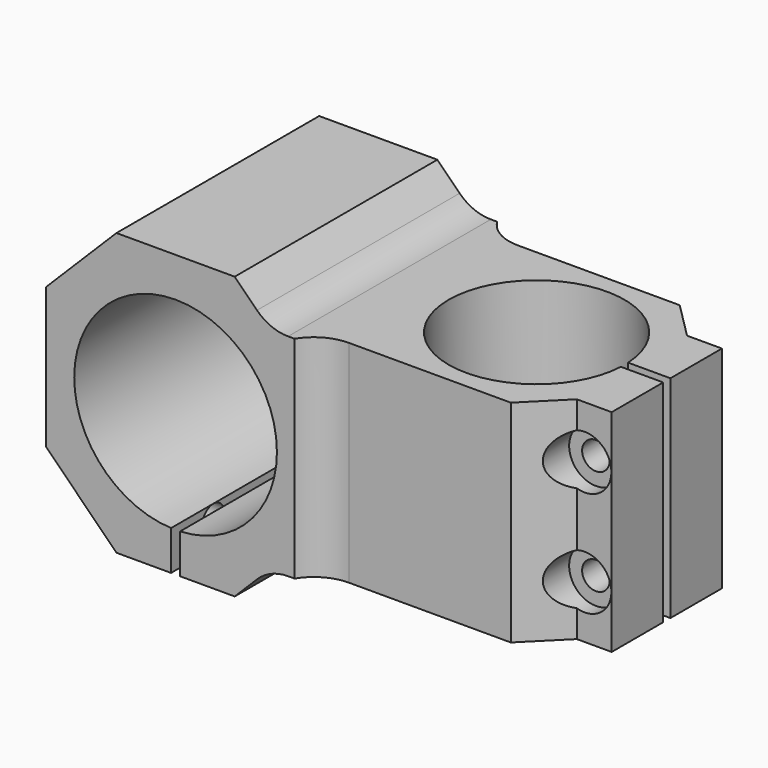
from build123d import *

# Parameters (mm, degrees)
F1_DEPTH       = 22.86
F3_DEPTH       = 23.368
F5_DEPTH       = 45.72
F7_D           = 4.9784
F7_START       = 6.6163719
F7_CBORE_D     = 9.652
F7_CBORE_DEPTH = 2.54
F9_D           = 4.9784
F9_DEPTH       = 31.75
F9_CBORE_D     = 9.652
F9_CBORE_DEPTH = 12.7
F9_TIP         = 1.4956622529


with BuildPart() as f1:
    # F0 (on Front) → F1 (new body, symmetric)
    with BuildSketch(Plane.XZ):
        with BuildLine():
            ThreePointArc((-38.7916133821, 0), (-20.5036133821, 18.288), (-2.2156133821, 0))
            Line((-2.2156133821, 0), (10.4843866179, 0))
            Line((10.4843866179, 0), (26.3593866179, 0))
            Line((26.3593866179, 0), (42.2343866179, 0))
            Line((42.2343866179, 0), (49.8543866179, 0))
            Line((49.8543866179, 0), (49.8543866179, 19.05))
            Line((49.8543866179, 19.05), (-0.1977932308, 19.05))
            ThreePointArc((-0.1977932308, 19.05), (-3.2353429752, 19.6542062107), (-5.8104533064, 21.3748399243))
            Line((-5.8104533064, 21.3748399243), (-9.8356133821, 25.4))
            Line((-9.8356133821, 25.4), (-31.1716133821, 25.4))
            Line((-31.1716133821, 25.4), (-43.8716133821, 12.7))
            Line((-43.8716133821, 12.7), (-43.8716133821, 0))
            Line((-43.8716133821, 0), (-38.7916133821, 0))
        make_face()
        with BuildLine():
            ThreePointArc((-21.3164133821, -18.2699288493), (-33.7194264558, -12.640934649), (-38.7916133821, 0))
            Line((-38.7916133821, 0), (-43.8716133821, 0))
            Line((-43.8716133821, 0), (-43.8716133821, -12.7))
            Line((-43.8716133821, -12.7), (-31.1716133821, -25.4))
            Line((-31.1716133821, -25.4), (-21.3164133821, -25.4))
            Line((-21.3164133821, -25.4), (-21.3164133821, -18.2699288493))
        make_face()
        with BuildLine():
            ThreePointArc((-38.7916133821, 0), (-20.5036133821, 18.288), (-2.2156133821, 0))
            Line((-2.2156133821, 0), (10.4843866179, 0))
            Line((10.4843866179, 0), (26.3593866179, 0))
            Line((26.3593866179, 0), (42.2343866179, 0))
            Line((42.2343866179, 0), (49.8543866179, 0))
            Line((49.8543866179, 0), (49.8543866179, 19.05))
            Line((49.8543866179, 19.05), (-0.1977932308, 19.05))
            ThreePointArc((-0.1977932308, 19.05), (-3.2353429752, 19.6542062107), (-5.8104533064, 21.3748399243))
            Line((-5.8104533064, 21.3748399243), (-9.8356133821, 25.4))
            Line((-9.8356133821, 25.4), (-31.1716133821, 25.4))
            Line((-31.1716133821, 25.4), (-43.8716133821, 12.7))
            Line((-43.8716133821, 12.7), (-43.8716133821, 0))
            Line((-43.8716133821, 0), (-38.7916133821, 0))
        make_face()
        with BuildLine():
            Line((10.4843866179, 0), (-2.2156133821, 0))
            ThreePointArc((-2.2156133821, 0), (-7.2878003084, -12.640934649), (-19.6908133821, -18.2699288493))
            Line((-19.6908133821, -18.2699288493), (-19.6908133821, -25.4))
            Line((-19.6908133821, -25.4), (-9.8356133821, -25.4))
            Line((-9.8356133821, -25.4), (-5.8104533064, -21.3748399243))
            ThreePointArc((-5.8104533064, -21.3748399243), (-3.2353429752, -19.6542062107), (-0.1977932308, -19.05))
            Line((-0.1977932308, -19.05), (49.8543866179, -19.05))
            Line((49.8543866179, -19.05), (49.8543866179, 0))
            Line((49.8543866179, 0), (42.2343866179, 0))
            Line((42.2343866179, 0), (26.3593866179, 0))
            Line((26.3593866179, 0), (10.4843866179, 0))
        make_face()
    extrude(amount=F1_DEPTH, both=True)

    # F2 (on Top) → F3 (cut, symmetric)
    with BuildSketch(Plane.XY):
        with BuildLine():
            ThreePointArc((42.2135652835, -0.8128), (42.2291804306, -0.4065333221), (42.2343866179, 0))
            ThreePointArc((42.2343866179, 0), (42.2291804306, 0.4065333221), (42.2135652835, 0.8128))
            ThreePointArc((42.2135652835, 0.8128), (25.9528532958, 15.8697938127), (10.4843866179, 0))
            ThreePointArc((10.4843866179, 0), (25.9528532958, -15.8697938127), (42.2135652835, -0.8128))
        make_face()
        with BuildLine():
            ThreePointArc((42.2135652835, -0.8128), (42.2291804306, -0.4065333221), (42.2343866179, 0))
            ThreePointArc((42.2343866179, 0), (42.2291804306, 0.4065333221), (42.2135652835, 0.8128))
            ThreePointArc((42.2135652835, 0.8128), (25.9528532958, 15.8697938127), (10.4843866179, 0))
            ThreePointArc((10.4843866179, 0), (25.9528532958, -15.8697938127), (42.2135652835, -0.8128))
        make_face()
        with BuildLine():
            ThreePointArc((42.2135652835, 0.8128), (42.2291804306, 0.4065333221), (42.2343866179, 0))
            ThreePointArc((42.2343866179, 0), (42.2291804306, -0.4065333221), (42.2135652835, -0.8128))
            Line((42.2135652835, -0.8128), (49.8543866179, -0.8128))
            Line((49.8543866179, -0.8128), (49.8543866179, 0.8128))
            Line((49.8543866179, 0.8128), (42.2135652835, 0.8128))
        make_face()
        with BuildLine():
            ThreePointArc((42.2135652835, 0.8128), (42.2291804306, 0.4065333221), (42.2343866179, 0))
            ThreePointArc((42.2343866179, 0), (42.2291804306, -0.4065333221), (42.2135652835, -0.8128))
            Line((42.2135652835, -0.8128), (49.8543866179, -0.8128))
            Line((49.8543866179, -0.8128), (49.8543866179, 0.8128))
            Line((49.8543866179, 0.8128), (42.2135652835, 0.8128))
        make_face()
    extrude(amount=F3_DEPTH, both=True, mode=Mode.SUBTRACT)

    # F4 (on face) → F5 (cut)
    with BuildSketch(Plane.XY.offset(25.4)):
        with BuildLine():
            Line((7.7393313079, 19.05), (36.9442318174, 19.05))
            Line((36.9442318174, 19.05), (43.5606037016, 12.4336281158))
            Line((43.5606037016, 12.4336281158), (49.8543866179, 12.4336281158))
            Line((49.8543866179, 12.4336281158), (49.8543866179, 22.86))
            Line((49.8543866179, 22.86), (0.9593866179, 22.86))
            ThreePointArc((0.9593866179, 22.86), (3.8507663413, 20.0677479271), (7.7393313079, 19.05))
        make_face()
        with BuildLine():
            Line((43.5606037016, -12.4336281158), (36.9442318174, -19.05))
            Line((36.9442318174, -19.05), (7.7393313079, -19.05))
            ThreePointArc((7.7393313079, -19.05), (3.8507663413, -20.0677479271), (0.9593866179, -22.86))
            Line((0.9593866179, -22.86), (49.8543866179, -22.86))
            Line((49.8543866179, -22.86), (49.8543866179, -12.4336281158))
            Line((49.8543866179, -12.4336281158), (43.5606037016, -12.4336281158))
        make_face()
    extrude(amount=-F5_DEPTH, mode=Mode.SUBTRACT)

    # F7 (through all)
    # its depths count from where the whole tool has entered the part; down to there all is cleared
    with Locations(Plane.XZ.offset(19.05).offset(-F7_START)):
        with Locations((44.9775866179, 9.525), (44.9775866179, -9.525)):
            CounterBoreHole(F7_D / 2, F7_CBORE_D / 2, F7_CBORE_DEPTH)

    # F9
    with Locations(Plane(origin=(-43.8716133821, 0, 0), x_dir=(0, -1, 0), z_dir=(-1, 0, 0))):
        with Locations((13.335, 20.7645), (-13.335, 20.7645), (13.335, -20.7645), (-13.335, -20.7645)):
            CounterBoreHole(F9_D / 2, F9_CBORE_D / 2, F9_CBORE_DEPTH, depth=F9_DEPTH)
            with Locations((0, 0, -(F9_DEPTH + F9_TIP / 2))):  # 118° drill point
                Cone(0, F9_D / 2, F9_TIP, mode=Mode.SUBTRACT)


solid = f1.part
